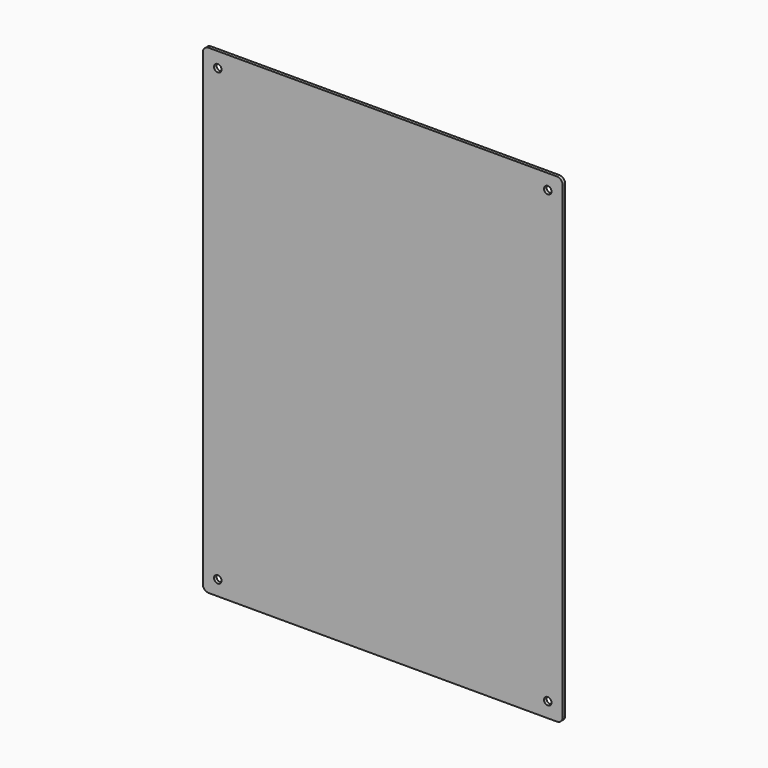
from build123d import *

# Parameters (mm, degrees)
F1_DEPTH = 152.4
F2_R     = 5.08
F3_R     = 2.54
F4_W     = 304.8
F4_H     = 406.4
F5_DEPTH = 2.6162
F6_R     = 3.175
F7_DEPTH = 32.925564
F8_R     = 5.08


with BuildPart() as f1:
    # F0 (on Top) → F1 (new body)
    with BuildSketch(Plane.XY):
        Polygon((-23.573172, 30.308364), (-26.940768, 26.940768), (0, 0), (26.940768, 26.940768), (23.573172, 30.308364), (0, 6.735192), align=None)
    extrude(amount=F1_DEPTH)

    # F2
    f2_edges = [f1.edges().sort_by_distance(p)[0] for p in [
        (0, 6.735192, 76.2),
    ]]
    fillet(f2_edges, radius=F2_R)

    # F3
    f3_edges = [f1.edges().sort_by_distance(p)[0] for p in [
        (0, 0, 76.2),
    ]]
    fillet(f3_edges, radius=F3_R)


with BuildPart() as f5:
    # F4 (on Front) → F5 (new body)
    with BuildSketch(Plane.XZ):
        with Locations((0, 76.2)):
            Rectangle(F4_W, F4_H)
    extrude(amount=F5_DEPTH)

    # F6 (on face) → F7 (cut, through all)
    with BuildSketch(Plane.XZ.offset(2.6162)):
        with Locations((-139.7, 266.7)):
            Circle(F6_R)
        with Locations((139.7, 266.7)):
            Circle(F6_R)
        with Locations((139.7, -114.3)):
            Circle(F6_R)
        with Locations((-139.7, -114.3)):
            Circle(F6_R)
    extrude(amount=-F7_DEPTH, mode=Mode.SUBTRACT)

    # F8
    f8_edges = [f5.edges().sort_by_distance(p)[0] for p in [
        (-152.4, -1.3081, 279.4),
        (152.4, -1.3081, 279.4),
        (152.4, -1.3081, -127),
        (-152.4, -1.3081, -127),
    ]]
    fillet(f8_edges, radius=F8_R)


solid = Compound([f1.part, f5.part])
